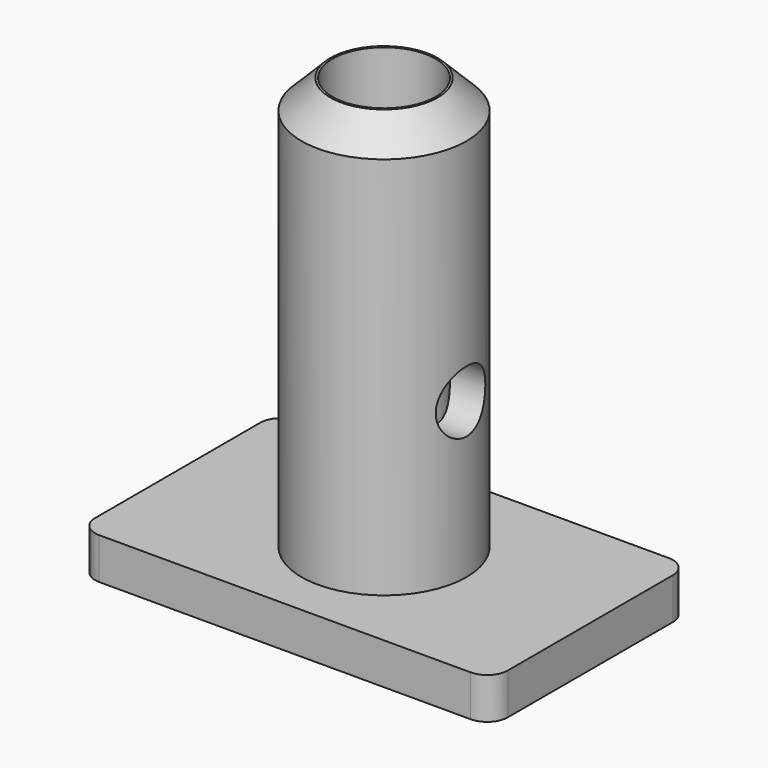
from build123d import *

# Parameters (mm, degrees)
F0_R     = 20
F0_R_2   = 12.5
F1_DEPTH = 100
F2_W     = 100
F2_H     = 60
F3_DEPTH = 10
F4_R     = 5
F5_SIZE  = 7
F6_R     = 7.5
F7_DEPTH = 20


with BuildPart() as f1:
    # F0 (on Top) → F1 (new body)
    with BuildSketch(Plane.XY):
        Circle(F0_R)
        Circle(F0_R_2, mode=Mode.SUBTRACT)
    extrude(amount=F1_DEPTH)

    # F2 (on Top) → F3 (join)
    with BuildSketch(Plane.XY):
        Rectangle(F2_W, F2_H)
    extrude(amount=-F3_DEPTH)

    # F4
    f4_edges = [f1.edges().sort_by_distance(p)[0] for p in [
        (-50, -30, -5),
        (50, -30, -5),
        (50, 30, -5),
        (-50, 30, -5),
    ]]
    fillet(f4_edges, radius=F4_R)

    # F5
    f5_edges = [f1.edges().sort_by_distance(p)[0] for p in [
        (-20, 0, 100),
    ]]
    chamfer(f5_edges, length=F5_SIZE)

    # F6 (on Right) → F7 (cut, symmetric)
    with BuildSketch(Plane.YZ):
        with Locations((0, 37.5)):
            Circle(F6_R)
    extrude(amount=F7_DEPTH, both=True, mode=Mode.SUBTRACT)


solid = f1.part
